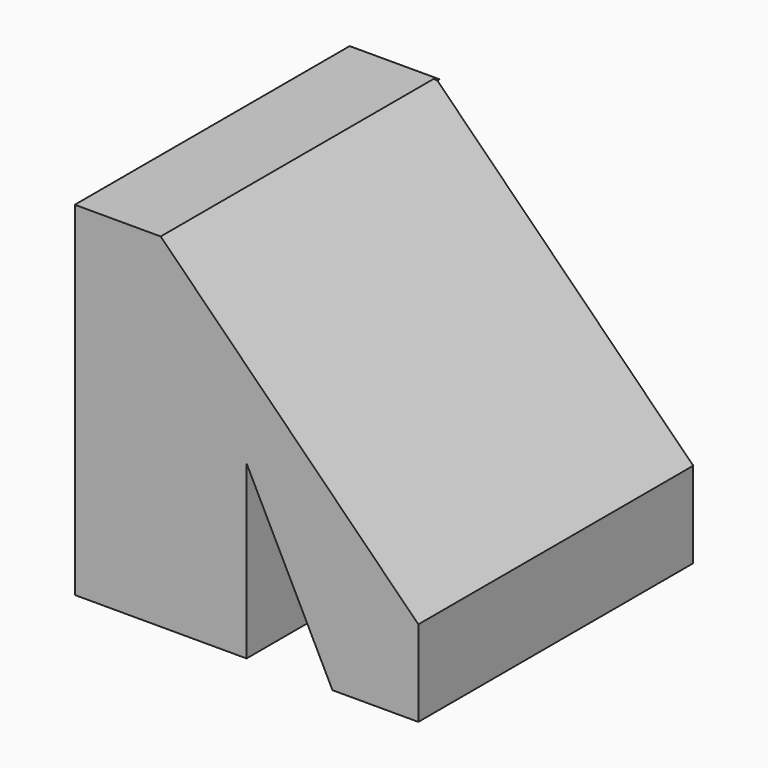
from build123d import *

# Parameters (mm, degrees)
F0_W     = 4
F0_H     = 4
F1_DEPTH = 4
F3_DEPTH = 25
F8_DEPTH = 25


with BuildPart() as f1:
    # F0 (on Top) → F1 (new body)
    with BuildSketch(Plane.XY):
        with Locations((2, 2)):
            Rectangle(F0_W, F0_H)
    extrude(amount=F1_DEPTH)

    # F2 (on face) → F3 (cut)
    with BuildSketch(Plane.XZ):
        Polygon((2, 2), (2, 0), (3, 0), align=None)
    extrude(amount=-F3_DEPTH, mode=Mode.SUBTRACT)

    # F7 (on 3pt) → F8 (cut)
    with BuildSketch(Plane(origin=(2.5, 0, 2.5), x_dir=(0, -1, 0), z_dir=(-0.7071067812, 0, -0.7071067812))):
        Polygon((-1.2632596772, 0.4017388273), (0, 2.1224794909), (-3.9750006981, 2.1224794909), (-3.9823182922, 0.4017388273), align=None)
        Polygon((0, -2.1235230379), (0, 2.1224794909), (-1.2632596772, 0.4017388273), align=None)
        Polygon((-3.9930571802, -2.1235230379), (0, -2.1235230379), (-1.2632596772, 0.4017388273), (-3.9823182922, 0.4017388273), align=None)
        Polygon((-3.9823182922, 0.4017388273), (-3.9750006981, 2.1224794909), (-5.2508385852, 0.4017388273), align=None)
        Polygon((-5.2508385852, 0.4017388273), (-3.9930571802, -2.1235230379), (-3.9823182922, 0.4017388273), align=None)
    extrude(amount=-F8_DEPTH, mode=Mode.SUBTRACT)


solid = f1.part
